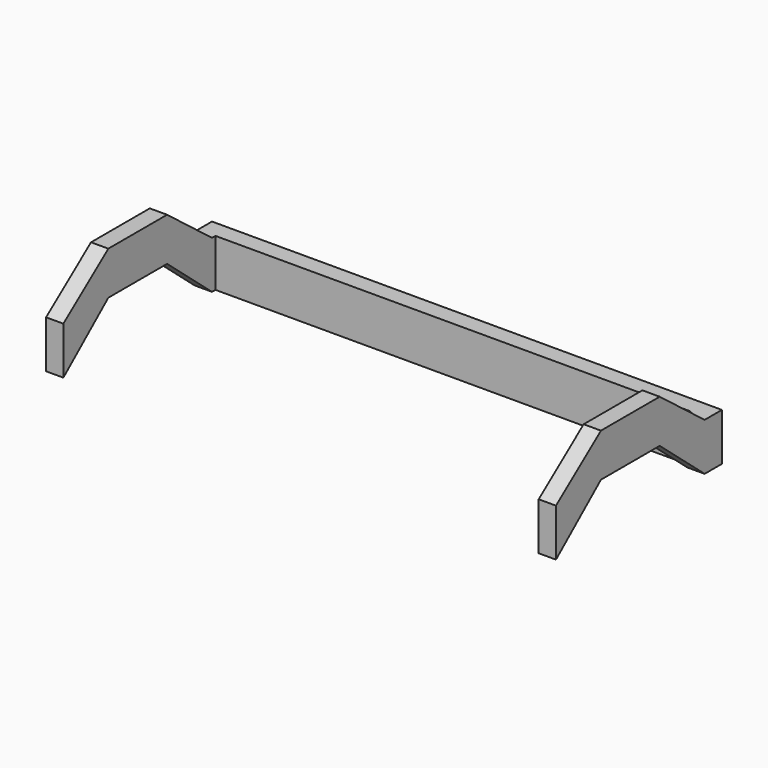
from build123d import *

# Parameters (mm, degrees)
F0_W      = 110
F0_H      = 44
F1_DEPTH  = 21
F4_W      = 43
F4_H      = 21
F5_DEPTH  = 118
F6_DEPTH  = 10
F7_DEPTH  = 5
F9_T      = -4
F10_DEPTH = 25.4
F8_W      = 5
F8_H      = 10
F11_DEPTH = 254
F12_DEPTH = 25.4
F13_W     = 110
F13_H     = 5.2398111895
F14_DEPTH = 25.4


with BuildPart() as f1:
    # F0 (on Top) → F1 (new body)
    with BuildSketch(Plane.XY):
        Rectangle(F0_W, F0_H)
    extrude(amount=F1_DEPTH)


with BuildPart() as f5:
    # F4 (on offset) → F5 (new body)
    with BuildSketch(Plane.YZ.offset(59)):
        with Locations((0, -5.4130828939)):
            Rectangle(F4_W, F4_H)
    extrude(amount=-F5_DEPTH)

    # F6 (add): a face of the model
    f6_faces = [f5.faces().sort_by_distance(p)[0] for p in [
        (0, 0, 5.0869171061),
    ]]
    extrude(f6_faces, amount=F6_DEPTH)

    # F7 (add): a face of the model
    f7_faces = [f5.faces().sort_by_distance(p)[0] for p in [
        (0, 21.5, -0.4130828939),
    ]]
    extrude(f7_faces, amount=F7_DEPTH)

    # F9
    f9_openings = [f5.faces().sort_by_distance(p)[0] for p in [
        (0, 2.5, -15.913083),
    ]]
    offset(amount=F9_T, openings=f9_openings)

    # F10 (cut): a face of the model
    f10_faces = [f5.faces().sort_by_distance(p)[0] for p in [
        (0, 2.5, 11.0869171061),
    ]]
    extrude(f10_faces, amount=-F10_DEPTH, mode=Mode.SUBTRACT)

    # F8 (on face) → F11 (cut)
    with BuildSketch(Plane.YZ.offset(59)):
        Polygon((0, 5.0869171061), (0, -5.9130828939), (21.5, -5.9130828939), (8.5, 5.0869171061), align=None)
        Polygon((-21.5, -5.9130828939), (-21.5, -15.9130828939), (21.5, -15.9130828939), (21.5, -5.9130828939), (0, -5.9130828939), align=None)
        with Locations((24, -10.9130828939)):
            Rectangle(F8_W, F8_H)
        Polygon((26.5, 15.0869171061), (8.5, 15.0869171061), (21.5, 5.0869171061), (26.5, 5.0869171061), align=None)
        Polygon((-8.5, 5.0869171061), (-21.5, -5.9130828939), (0, -5.9130828939), (0, 5.0869171061), align=None)
        Polygon((-21.5, 15.0869171061), (-21.5, 5.0869171061), (-8.5, 15.0869171061), align=None)
    extrude(amount=-F11_DEPTH, mode=Mode.SUBTRACT)

    # F12 (cut): a face of the model
    f12_faces = [f5.faces().sort_by_distance(p)[0] for p in [
        (0, -17.5, 2.8176863368),
    ]]
    extrude(f12_faces, amount=-F12_DEPTH, mode=Mode.SUBTRACT)

    # F13 (on face) → F14 (cut)
    with BuildSketch(Plane(origin=(0, -6.0549280902, 7.1558241066), x_dir=(1, 0, 0), z_dir=(0, 0.6459422415, -0.7633862854))):
        with Locations((0, 17.6124095592)):
            Rectangle(F13_W, F13_H)
    extrude(amount=-F14_DEPTH, mode=Mode.SUBTRACT)


solid = f5.part
